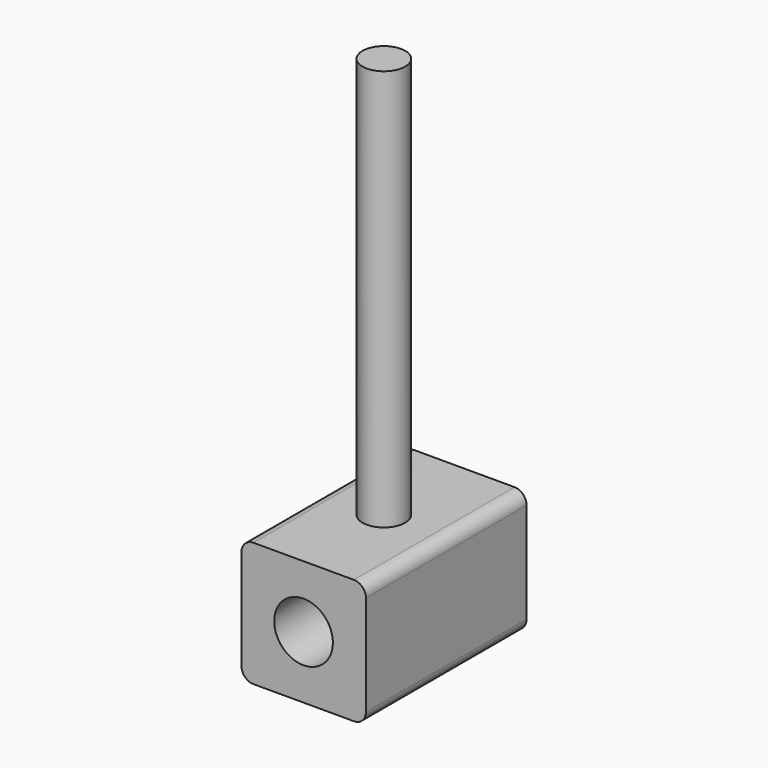
from build123d import *

# Parameters (mm, degrees)
F0_W     = 787.4
F0_H     = 787.4
F1_DEPTH = 1270
F2_R     = 76.2
F3_R     = 185.5851
F4_DEPTH = 1270
F5_R     = 135.014688
F6_DEPTH = 2540


with BuildPart() as f1:
    # F0 (on Front) → F1 (new body)
    with BuildSketch(Plane.XZ):
        with Locations((0.888865, -82.064181)):
            Rectangle(F0_W, F0_H)
    extrude(amount=F1_DEPTH)

    # F2
    f2_edges = [f1.edges().sort_by_distance(p)[0] for p in [
        (394.588865, -635, 311.635819),
        (-392.811135, -635, 311.635819),
        (-392.811135, -635, -475.764181),
        (394.588865, -635, -475.764181),
    ]]
    fillet(f2_edges, radius=F2_R)

    # F3 (on face) → F4 (cut)
    with BuildSketch(Plane.XZ.offset(1270)):
        with Locations((0, -82.064181)):
            Circle(F3_R)
    extrude(amount=-F4_DEPTH, mode=Mode.SUBTRACT)

    # F5 (on face) → F6 (join)
    with BuildSketch(Plane.XY.offset(311.635819)):
        with Locations((0, -635)):
            Circle(F5_R)
    extrude(amount=F6_DEPTH)


solid = f1.part
